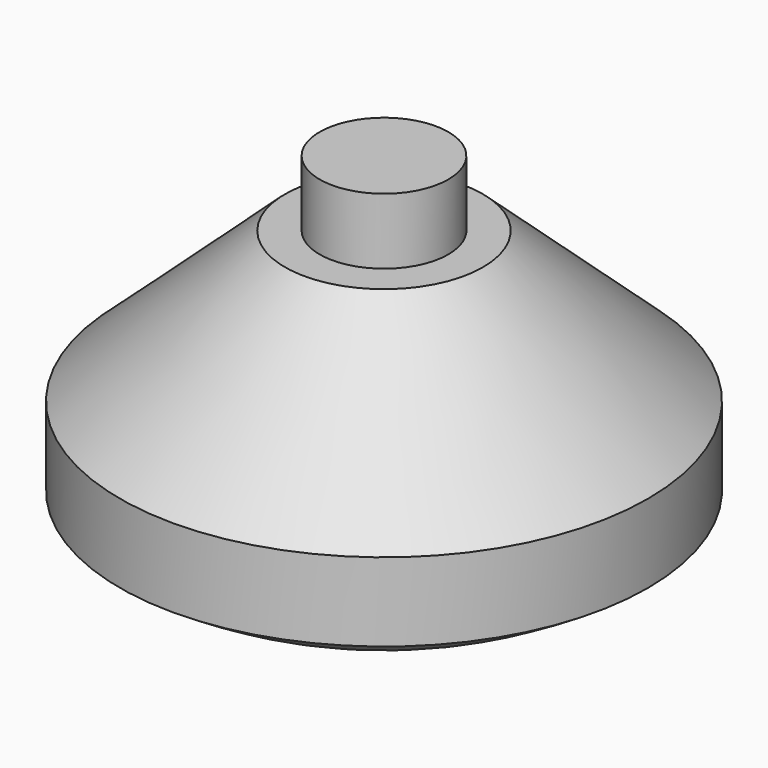
from build123d import *


with BuildPart() as f1:
    # F0 (on Front) → F1 (revolve)
    with BuildSketch(Plane.XZ):
        with BuildLine():
            Line((19.5, 108.0623489583), (0, 108.0623489583))
            Line((0, 108.0623489583), (0, 0))
            add(Edge.make_bspline(
                [(80, 18.7464226037), (73.0194932148, 14.338408724), (58.7966478818, 5.3570408138), (32.1935615261, 0.3045307406), (11.0880056096, 0.1048855237), (0, 0)],
                knots=[0, 0, 0, 0, 0.3138846129, 0.6395427209, 1, 1, 1, 1], degree=3))
            Line((80, 18.7464226037), (80, 42.5496909022))
            Line((80, 42.5496909022), (30, 88.0623489583))
            Line((30, 88.0623489583), (19.5, 88.0623489583))
            Line((19.5, 88.0623489583), (19.5, 108.0623489583))
        make_face()
    revolve(axis=Axis((0, 0, 53.0623489583), (0, 0, 1)))


solid = f1.part
